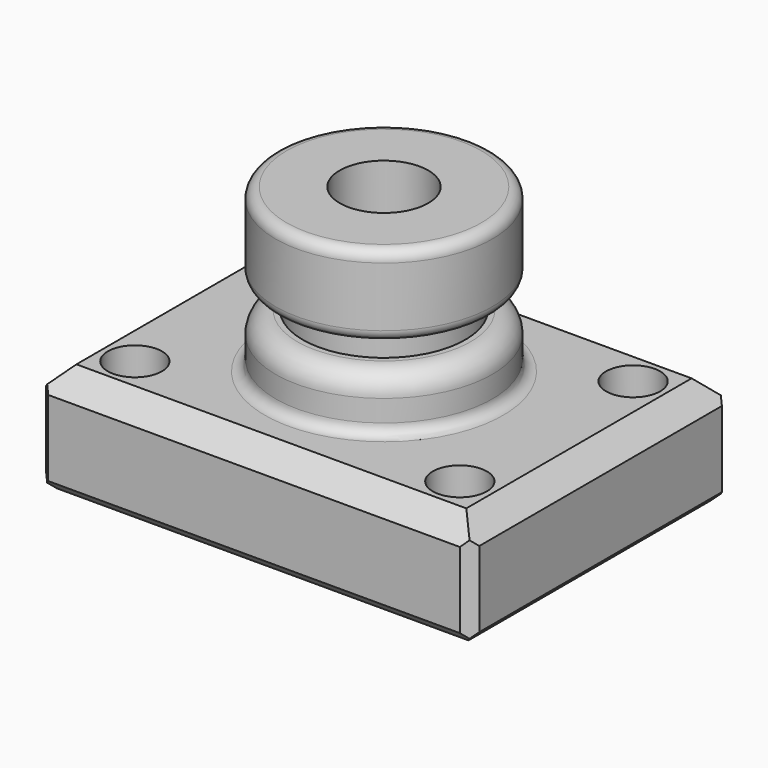
from build123d import *

# Parameters (mm, degrees)
F0_W      = 101.6
F0_H      = 76.2
F1_DEPTH  = 25.4
F2_R      = 6.35
F3_DEPTH  = 25.4
F4_W      = 25.4
F4_H      = 38.1
F6_W      = 30.48
F6_H      = 6.35
F8_R      = 5.08
F9_SIZE   = 5.08
F10_R     = 2.54
F11_SIZE  = 2.54
F12_SIZE  = 2.54
F13_R     = 10.3882483968
F14_DEPTH = 76.2


with BuildPart() as f1:
    # F0 (on Top) → F1 (new body)
    with BuildSketch(Plane.XY):
        Rectangle(F0_W, F0_H)
    extrude(amount=F1_DEPTH)

    # F2 (on face) → F3 (cut)
    with BuildSketch(Plane.XY.offset(25.4)):
        with Locations((-38.1, 25.4)):
            Circle(F2_R)
        with Locations((38.1, 25.4)):
            Circle(F2_R)
        with Locations((38.1, -25.4)):
            Circle(F2_R)
        with Locations((-38.1, -25.4)):
            Circle(F2_R)
    extrude(amount=-F3_DEPTH, mode=Mode.SUBTRACT)

    # F4 (on Front) → F5 (revolve)
    with BuildSketch(Plane.XZ):
        with Locations((-12.7, 44.45)):
            Rectangle(F4_W, F4_H)
    revolve(axis=Axis((0, 0, 44.45), (0, 0, 1)))

    # F6 (on Right) → F7 (revolve, cut)
    with BuildSketch(Plane.YZ):
        with Locations((-34.29, 41.275)):
            Rectangle(F6_W, F6_H)
    revolve(axis=Axis((0, 0, 63.5), (0, 0, -1)), mode=Mode.SUBTRACT)

    # F8
    f8_edges = [f1.edges().sort_by_distance(p)[0] for p in [
        (25.4, 0, 38.1),
    ]]
    fillet(f8_edges, radius=F8_R)

    # F9
    f9_edges = [f1.edges().sort_by_distance(p)[0] for p in [
        (0, -38.1, 25.4),
        (50.8, 0, 25.4),
        (0, 38.1, 25.4),
        (-50.8, 0, 25.4),
    ]]
    chamfer(f9_edges, length=F9_SIZE)

    # F10
    f10_edges = [f1.edges().sort_by_distance(p)[0] for p in [
        (25.4, 0, 25.4),
        (25.4, 0, 33.02),
        (25.4, 0, 44.45),
        (25.4, 0, 63.5),
    ]]
    fillet(f10_edges, radius=F10_R)

    # F11
    f11_edges = [f1.edges().sort_by_distance(p)[0] for p in [
        (0, -38.1, 0),
        (50.8, 0, 0),
        (0, 38.1, 0),
        (-50.8, 0, 0),
    ]]
    chamfer(f11_edges, length=F11_SIZE)

    # F12
    f12_edges = [f1.edges().sort_by_distance(p)[0] for p in [
        (-50.8, 38.1, 11.43),
        (-50.8, -38.1, 11.43),
        (50.8, 38.1, 11.43),
        (50.8, -38.1, 11.43),
    ]]
    chamfer(f12_edges, length=F12_SIZE)

    # F13 (on face) → F14 (cut)
    with BuildSketch(Plane.XY.offset(63.5)):
        Circle(F13_R)
    extrude(amount=-F14_DEPTH, mode=Mode.SUBTRACT)


solid = f1.part
